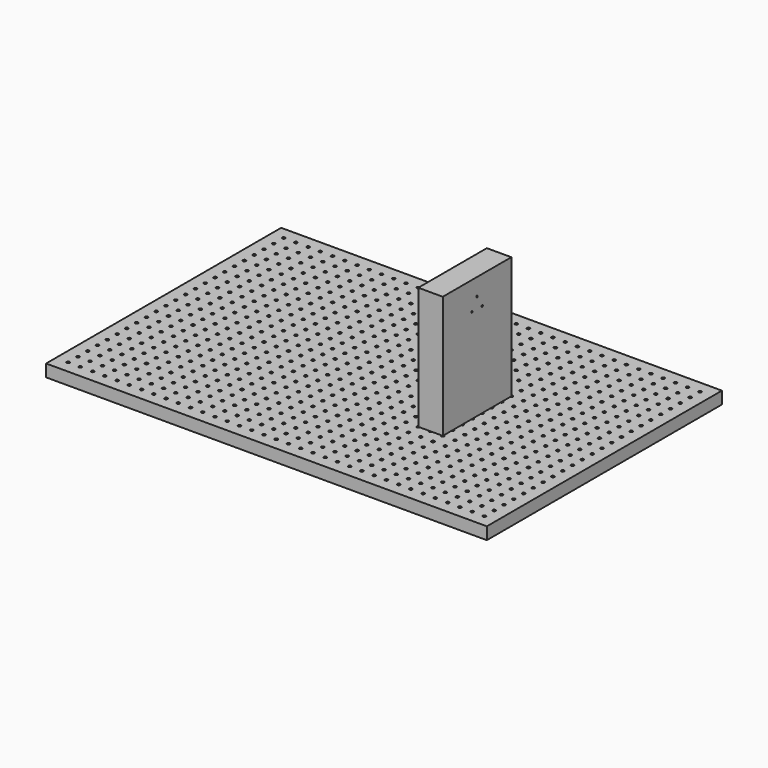
from build123d import *

# Parameters (mm, degrees)
F0_W     = 900
F0_H     = 600
F1_DEPTH = 25
F2_R     = 3
F3_DEPTH = 10
F4_W     = 50
F4_H     = 175
F5_DEPTH = 250
F6_R     = 1.75
F7_DEPTH = 300.001
F8_R     = 20
F9_DEPTH = 20


with BuildPart() as f1:
    # F0 (on Top) → F1 (new body)
    with BuildSketch(Plane.XY):
        with Locations((450, 307.97898)):
            Rectangle(F0_W, F0_H)
    extrude(amount=F1_DEPTH)

    # F2 (on face) → F3 (cut)
    with BuildSketch(Plane.XY.offset(25)):
        with Locations((25, 32.97898)):
            Circle(F2_R)
        with Locations((25, 57.97898)):
            Circle(F2_R)
        with Locations((25, 82.97898)):
            Circle(F2_R)
        with Locations((25, 107.97898)):
            Circle(F2_R)
        with Locations((25, 132.97898)):
            Circle(F2_R)
        with Locations((25, 157.97898)):
            Circle(F2_R)
        with Locations((25, 182.97898)):
            Circle(F2_R)
        with Locations((25, 207.97898)):
            Circle(F2_R)
        with Locations((25, 232.97898)):
            Circle(F2_R)
        with Locations((25, 257.97898)):
            Circle(F2_R)
        with Locations((25, 282.97898)):
            Circle(F2_R)
        with Locations((25, 307.97898)):
            Circle(F2_R)
        with Locations((25, 332.97898)):
            Circle(F2_R)
        with Locations((25, 357.97898)):
            Circle(F2_R)
        with Locations((25, 382.97898)):
            Circle(F2_R)
        with Locations((25, 407.97898)):
            Circle(F2_R)
        with Locations((25, 432.97898)):
            Circle(F2_R)
        with Locations((25, 457.97898)):
            Circle(F2_R)
        with Locations((25, 482.97898)):
            Circle(F2_R)
        with Locations((25, 507.97898)):
            Circle(F2_R)
        with Locations((25, 532.97898)):
            Circle(F2_R)
        with Locations((25, 557.97898)):
            Circle(F2_R)
        with Locations((25, 582.97898)):
            Circle(F2_R)
        with Locations((50, 32.97898)):
            Circle(F2_R)
        with Locations((50, 57.97898)):
            Circle(F2_R)
        with Locations((50, 82.97898)):
            Circle(F2_R)
        with Locations((50, 107.97898)):
            Circle(F2_R)
        with Locations((50, 132.97898)):
            Circle(F2_R)
        with Locations((50, 157.97898)):
            Circle(F2_R)
        with Locations((50, 182.97898)):
            Circle(F2_R)
        with Locations((50, 207.97898)):
            Circle(F2_R)
        with Locations((50, 232.97898)):
            Circle(F2_R)
        with Locations((50, 257.97898)):
            Circle(F2_R)
        with Locations((50, 282.97898)):
            Circle(F2_R)
        with Locations((50, 307.97898)):
            Circle(F2_R)
        with Locations((50, 332.97898)):
            Circle(F2_R)
        with Locations((50, 357.97898)):
            Circle(F2_R)
        with Locations((50, 382.97898)):
            Circle(F2_R)
        with Locations((50, 407.97898)):
            Circle(F2_R)
        with Locations((50, 432.97898)):
            Circle(F2_R)
        with Locations((50, 457.97898)):
            Circle(F2_R)
        with Locations((50, 482.97898)):
            Circle(F2_R)
        with Locations((50, 507.97898)):
            Circle(F2_R)
        with Locations((50, 532.97898)):
            Circle(F2_R)
        with Locations((50, 557.97898)):
            Circle(F2_R)
        with Locations((50, 582.97898)):
            Circle(F2_R)
        with Locations((75, 32.97898)):
            Circle(F2_R)
        with Locations((75, 57.97898)):
            Circle(F2_R)
        with Locations((75, 82.97898)):
            Circle(F2_R)
        with Locations((75, 107.97898)):
            Circle(F2_R)
        with Locations((75, 132.97898)):
            Circle(F2_R)
        with Locations((75, 157.97898)):
            Circle(F2_R)
        with Locations((75, 182.97898)):
            Circle(F2_R)
        with Locations((75, 207.97898)):
            Circle(F2_R)
        with Locations((75, 232.97898)):
            Circle(F2_R)
        with Locations((75, 257.97898)):
            Circle(F2_R)
        with Locations((75, 282.97898)):
            Circle(F2_R)
        with Locations((75, 307.97898)):
            Circle(F2_R)
        with Locations((75, 332.97898)):
            Circle(F2_R)
        with Locations((75, 357.97898)):
            Circle(F2_R)
        with Locations((75, 382.97898)):
            Circle(F2_R)
        with Locations((75, 407.97898)):
            Circle(F2_R)
        with Locations((75, 432.97898)):
            Circle(F2_R)
        with Locations((75, 457.97898)):
            Circle(F2_R)
        with Locations((75, 482.97898)):
            Circle(F2_R)
        with Locations((75, 507.97898)):
            Circle(F2_R)
        with Locations((75, 532.97898)):
            Circle(F2_R)
        with Locations((75, 557.97898)):
            Circle(F2_R)
        with Locations((75, 582.97898)):
            Circle(F2_R)
        with Locations((100, 32.97898)):
            Circle(F2_R)
        with Locations((100, 57.97898)):
            Circle(F2_R)
        with Locations((100, 82.97898)):
            Circle(F2_R)
        with Locations((100, 107.97898)):
            Circle(F2_R)
        with Locations((100, 132.97898)):
            Circle(F2_R)
        with Locations((100, 157.97898)):
            Circle(F2_R)
        with Locations((100, 182.97898)):
            Circle(F2_R)
        with Locations((100, 207.97898)):
            Circle(F2_R)
        with Locations((100, 232.97898)):
            Circle(F2_R)
        with Locations((100, 257.97898)):
            Circle(F2_R)
        with Locations((100, 282.97898)):
            Circle(F2_R)
        with Locations((100, 307.97898)):
            Circle(F2_R)
        with Locations((100, 332.97898)):
            Circle(F2_R)
        with Locations((100, 357.97898)):
            Circle(F2_R)
        with Locations((100, 382.97898)):
            Circle(F2_R)
        with Locations((100, 407.97898)):
            Circle(F2_R)
        with Locations((100, 432.97898)):
            Circle(F2_R)
        with Locations((100, 457.97898)):
            Circle(F2_R)
        with Locations((100, 482.97898)):
            Circle(F2_R)
        with Locations((100, 507.97898)):
            Circle(F2_R)
        with Locations((100, 532.97898)):
            Circle(F2_R)
        with Locations((100, 557.97898)):
            Circle(F2_R)
        with Locations((100, 582.97898)):
            Circle(F2_R)
        with Locations((125, 32.97898)):
            Circle(F2_R)
        with Locations((125, 57.97898)):
            Circle(F2_R)
        with Locations((125, 82.97898)):
            Circle(F2_R)
        with Locations((125, 107.97898)):
            Circle(F2_R)
        with Locations((125, 132.97898)):
            Circle(F2_R)
        with Locations((125, 157.97898)):
            Circle(F2_R)
        with Locations((125, 182.97898)):
            Circle(F2_R)
        with Locations((125, 207.97898)):
            Circle(F2_R)
        with Locations((125, 232.97898)):
            Circle(F2_R)
        with Locations((125, 257.97898)):
            Circle(F2_R)
        with Locations((125, 282.97898)):
            Circle(F2_R)
        with Locations((125, 307.97898)):
            Circle(F2_R)
        with Locations((125, 332.97898)):
            Circle(F2_R)
        with Locations((125, 357.97898)):
            Circle(F2_R)
        with Locations((125, 382.97898)):
            Circle(F2_R)
        with Locations((125, 407.97898)):
            Circle(F2_R)
        with Locations((125, 432.97898)):
            Circle(F2_R)
        with Locations((125, 457.97898)):
            Circle(F2_R)
        with Locations((125, 482.97898)):
            Circle(F2_R)
        with Locations((125, 507.97898)):
            Circle(F2_R)
        with Locations((125, 532.97898)):
            Circle(F2_R)
        with Locations((125, 557.97898)):
            Circle(F2_R)
        with Locations((125, 582.97898)):
            Circle(F2_R)
        with Locations((150, 32.97898)):
            Circle(F2_R)
        with Locations((150, 57.97898)):
            Circle(F2_R)
        with Locations((150, 82.97898)):
            Circle(F2_R)
        with Locations((150, 107.97898)):
            Circle(F2_R)
        with Locations((150, 132.97898)):
            Circle(F2_R)
        with Locations((150, 157.97898)):
            Circle(F2_R)
        with Locations((150, 182.97898)):
            Circle(F2_R)
        with Locations((150, 207.97898)):
            Circle(F2_R)
        with Locations((150, 232.97898)):
            Circle(F2_R)
        with Locations((150, 257.97898)):
            Circle(F2_R)
        with Locations((150, 282.97898)):
            Circle(F2_R)
        with Locations((150, 307.97898)):
            Circle(F2_R)
        with Locations((150, 332.97898)):
            Circle(F2_R)
        with Locations((150, 357.97898)):
            Circle(F2_R)
        with Locations((150, 382.97898)):
            Circle(F2_R)
        with Locations((150, 407.97898)):
            Circle(F2_R)
        with Locations((150, 432.97898)):
            Circle(F2_R)
        with Locations((150, 457.97898)):
            Circle(F2_R)
        with Locations((150, 482.97898)):
            Circle(F2_R)
        with Locations((150, 507.97898)):
            Circle(F2_R)
        with Locations((150, 532.97898)):
            Circle(F2_R)
        with Locations((150, 557.97898)):
            Circle(F2_R)
        with Locations((150, 582.97898)):
            Circle(F2_R)
        with Locations((175, 32.97898)):
            Circle(F2_R)
        with Locations((175, 57.97898)):
            Circle(F2_R)
        with Locations((175, 82.97898)):
            Circle(F2_R)
        with Locations((175, 107.97898)):
            Circle(F2_R)
        with Locations((175, 132.97898)):
            Circle(F2_R)
        with Locations((175, 157.97898)):
            Circle(F2_R)
        with Locations((175, 182.97898)):
            Circle(F2_R)
        with Locations((175, 207.97898)):
            Circle(F2_R)
        with Locations((175, 232.97898)):
            Circle(F2_R)
        with Locations((175, 257.97898)):
            Circle(F2_R)
        with Locations((175, 282.97898)):
            Circle(F2_R)
        with Locations((175, 307.97898)):
            Circle(F2_R)
        with Locations((175, 332.97898)):
            Circle(F2_R)
        with Locations((175, 357.97898)):
            Circle(F2_R)
        with Locations((175, 382.97898)):
            Circle(F2_R)
        with Locations((175, 407.97898)):
            Circle(F2_R)
        with Locations((175, 432.97898)):
            Circle(F2_R)
        with Locations((175, 457.97898)):
            Circle(F2_R)
        with Locations((175, 482.97898)):
            Circle(F2_R)
        with Locations((175, 507.97898)):
            Circle(F2_R)
        with Locations((175, 532.97898)):
            Circle(F2_R)
        with Locations((175, 557.97898)):
            Circle(F2_R)
        with Locations((175, 582.97898)):
            Circle(F2_R)
        with Locations((200, 32.97898)):
            Circle(F2_R)
        with Locations((200, 57.97898)):
            Circle(F2_R)
        with Locations((200, 82.97898)):
            Circle(F2_R)
        with Locations((200, 107.97898)):
            Circle(F2_R)
        with Locations((200, 132.97898)):
            Circle(F2_R)
        with Locations((200, 157.97898)):
            Circle(F2_R)
        with Locations((200, 182.97898)):
            Circle(F2_R)
        with Locations((200, 207.97898)):
            Circle(F2_R)
        with Locations((200, 232.97898)):
            Circle(F2_R)
        with Locations((200, 257.97898)):
            Circle(F2_R)
        with Locations((200, 282.97898)):
            Circle(F2_R)
        with Locations((200, 307.97898)):
            Circle(F2_R)
        with Locations((200, 332.97898)):
            Circle(F2_R)
        with Locations((200, 357.97898)):
            Circle(F2_R)
        with Locations((200, 382.97898)):
            Circle(F2_R)
        with Locations((200, 407.97898)):
            Circle(F2_R)
        with Locations((200, 432.97898)):
            Circle(F2_R)
        with Locations((200, 457.97898)):
            Circle(F2_R)
        with Locations((200, 482.97898)):
            Circle(F2_R)
        with Locations((200, 507.97898)):
            Circle(F2_R)
        with Locations((200, 532.97898)):
            Circle(F2_R)
        with Locations((200, 557.97898)):
            Circle(F2_R)
        with Locations((200, 582.97898)):
            Circle(F2_R)
        with Locations((225, 32.97898)):
            Circle(F2_R)
        with Locations((225, 57.97898)):
            Circle(F2_R)
        with Locations((225, 82.97898)):
            Circle(F2_R)
        with Locations((225, 107.97898)):
            Circle(F2_R)
        with Locations((225, 132.97898)):
            Circle(F2_R)
        with Locations((225, 157.97898)):
            Circle(F2_R)
        with Locations((225, 182.97898)):
            Circle(F2_R)
        with Locations((225, 207.97898)):
            Circle(F2_R)
        with Locations((225, 232.97898)):
            Circle(F2_R)
        with Locations((225, 257.97898)):
            Circle(F2_R)
        with Locations((225, 282.97898)):
            Circle(F2_R)
        with Locations((225, 307.97898)):
            Circle(F2_R)
        with Locations((225, 332.97898)):
            Circle(F2_R)
        with Locations((225, 357.97898)):
            Circle(F2_R)
        with Locations((225, 382.97898)):
            Circle(F2_R)
        with Locations((225, 407.97898)):
            Circle(F2_R)
        with Locations((225, 432.97898)):
            Circle(F2_R)
        with Locations((225, 457.97898)):
            Circle(F2_R)
        with Locations((225, 482.97898)):
            Circle(F2_R)
        with Locations((225, 507.97898)):
            Circle(F2_R)
        with Locations((225, 532.97898)):
            Circle(F2_R)
        with Locations((225, 557.97898)):
            Circle(F2_R)
        with Locations((225, 582.97898)):
            Circle(F2_R)
        with Locations((250, 32.97898)):
            Circle(F2_R)
        with Locations((250, 57.97898)):
            Circle(F2_R)
        with Locations((250, 82.97898)):
            Circle(F2_R)
        with Locations((250, 107.97898)):
            Circle(F2_R)
        with Locations((250, 132.97898)):
            Circle(F2_R)
        with Locations((250, 157.97898)):
            Circle(F2_R)
        with Locations((250, 182.97898)):
            Circle(F2_R)
        with Locations((250, 207.97898)):
            Circle(F2_R)
        with Locations((250, 232.97898)):
            Circle(F2_R)
        with Locations((250, 257.97898)):
            Circle(F2_R)
        with Locations((250, 282.97898)):
            Circle(F2_R)
        with Locations((250, 307.97898)):
            Circle(F2_R)
        with Locations((250, 332.97898)):
            Circle(F2_R)
        with Locations((250, 357.97898)):
            Circle(F2_R)
        with Locations((250, 382.97898)):
            Circle(F2_R)
        with Locations((250, 407.97898)):
            Circle(F2_R)
        with Locations((250, 432.97898)):
            Circle(F2_R)
        with Locations((250, 457.97898)):
            Circle(F2_R)
        with Locations((250, 482.97898)):
            Circle(F2_R)
        with Locations((250, 507.97898)):
            Circle(F2_R)
        with Locations((250, 532.97898)):
            Circle(F2_R)
        with Locations((250, 557.97898)):
            Circle(F2_R)
        with Locations((250, 582.97898)):
            Circle(F2_R)
        with Locations((275, 32.97898)):
            Circle(F2_R)
        with Locations((275, 57.97898)):
            Circle(F2_R)
        with Locations((275, 82.97898)):
            Circle(F2_R)
        with Locations((275, 107.97898)):
            Circle(F2_R)
        with Locations((275, 132.97898)):
            Circle(F2_R)
        with Locations((275, 157.97898)):
            Circle(F2_R)
        with Locations((275, 182.97898)):
            Circle(F2_R)
        with Locations((275, 207.97898)):
            Circle(F2_R)
        with Locations((275, 232.97898)):
            Circle(F2_R)
        with Locations((275, 257.97898)):
            Circle(F2_R)
        with Locations((275, 282.97898)):
            Circle(F2_R)
        with Locations((275, 307.97898)):
            Circle(F2_R)
        with Locations((275, 332.97898)):
            Circle(F2_R)
        with Locations((275, 357.97898)):
            Circle(F2_R)
        with Locations((275, 382.97898)):
            Circle(F2_R)
        with Locations((275, 407.97898)):
            Circle(F2_R)
        with Locations((275, 432.97898)):
            Circle(F2_R)
        with Locations((275, 457.97898)):
            Circle(F2_R)
        with Locations((275, 482.97898)):
            Circle(F2_R)
        with Locations((275, 507.97898)):
            Circle(F2_R)
        with Locations((275, 532.97898)):
            Circle(F2_R)
        with Locations((275, 557.97898)):
            Circle(F2_R)
        with Locations((275, 582.97898)):
            Circle(F2_R)
        with Locations((300, 32.97898)):
            Circle(F2_R)
        with Locations((300, 57.97898)):
            Circle(F2_R)
        with Locations((300, 82.97898)):
            Circle(F2_R)
        with Locations((300, 107.97898)):
            Circle(F2_R)
        with Locations((300, 132.97898)):
            Circle(F2_R)
        with Locations((300, 157.97898)):
            Circle(F2_R)
        with Locations((300, 182.97898)):
            Circle(F2_R)
        with Locations((300, 207.97898)):
            Circle(F2_R)
        with Locations((300, 232.97898)):
            Circle(F2_R)
        with Locations((300, 257.97898)):
            Circle(F2_R)
        with Locations((300, 282.97898)):
            Circle(F2_R)
        with Locations((300, 307.97898)):
            Circle(F2_R)
        with Locations((300, 332.97898)):
            Circle(F2_R)
        with Locations((300, 357.97898)):
            Circle(F2_R)
        with Locations((300, 382.97898)):
            Circle(F2_R)
        with Locations((300, 407.97898)):
            Circle(F2_R)
        with Locations((300, 432.97898)):
            Circle(F2_R)
        with Locations((300, 457.97898)):
            Circle(F2_R)
        with Locations((300, 482.97898)):
            Circle(F2_R)
        with Locations((300, 507.97898)):
            Circle(F2_R)
        with Locations((300, 532.97898)):
            Circle(F2_R)
        with Locations((300, 557.97898)):
            Circle(F2_R)
        with Locations((300, 582.97898)):
            Circle(F2_R)
        with Locations((325, 32.97898)):
            Circle(F2_R)
        with Locations((325, 57.97898)):
            Circle(F2_R)
        with Locations((325, 82.97898)):
            Circle(F2_R)
        with Locations((325, 107.97898)):
            Circle(F2_R)
        with Locations((325, 132.97898)):
            Circle(F2_R)
        with Locations((325, 157.97898)):
            Circle(F2_R)
        with Locations((325, 182.97898)):
            Circle(F2_R)
        with Locations((325, 207.97898)):
            Circle(F2_R)
        with Locations((325, 232.97898)):
            Circle(F2_R)
        with Locations((325, 257.97898)):
            Circle(F2_R)
        with Locations((325, 282.97898)):
            Circle(F2_R)
        with Locations((325, 307.97898)):
            Circle(F2_R)
        with Locations((325, 332.97898)):
            Circle(F2_R)
        with Locations((325, 357.97898)):
            Circle(F2_R)
        with Locations((325, 382.97898)):
            Circle(F2_R)
        with Locations((325, 407.97898)):
            Circle(F2_R)
        with Locations((325, 432.97898)):
            Circle(F2_R)
        with Locations((325, 457.97898)):
            Circle(F2_R)
        with Locations((325, 482.97898)):
            Circle(F2_R)
        with Locations((325, 507.97898)):
            Circle(F2_R)
        with Locations((325, 532.97898)):
            Circle(F2_R)
        with Locations((325, 557.97898)):
            Circle(F2_R)
        with Locations((325, 582.97898)):
            Circle(F2_R)
        with Locations((350, 32.97898)):
            Circle(F2_R)
        with Locations((350, 57.97898)):
            Circle(F2_R)
        with Locations((350, 82.97898)):
            Circle(F2_R)
        with Locations((350, 107.97898)):
            Circle(F2_R)
        with Locations((350, 132.97898)):
            Circle(F2_R)
        with Locations((350, 157.97898)):
            Circle(F2_R)
        with Locations((350, 182.97898)):
            Circle(F2_R)
        with Locations((350, 207.97898)):
            Circle(F2_R)
        with Locations((350, 232.97898)):
            Circle(F2_R)
        with Locations((350, 257.97898)):
            Circle(F2_R)
        with Locations((350, 282.97898)):
            Circle(F2_R)
        with Locations((350, 307.97898)):
            Circle(F2_R)
        with Locations((350, 332.97898)):
            Circle(F2_R)
        with Locations((350, 357.97898)):
            Circle(F2_R)
        with Locations((350, 382.97898)):
            Circle(F2_R)
        with Locations((350, 407.97898)):
            Circle(F2_R)
        with Locations((350, 432.97898)):
            Circle(F2_R)
        with Locations((350, 457.97898)):
            Circle(F2_R)
        with Locations((350, 482.97898)):
            Circle(F2_R)
        with Locations((350, 507.97898)):
            Circle(F2_R)
        with Locations((350, 532.97898)):
            Circle(F2_R)
        with Locations((350, 557.97898)):
            Circle(F2_R)
        with Locations((350, 582.97898)):
            Circle(F2_R)
        with Locations((375, 32.97898)):
            Circle(F2_R)
        with Locations((375, 57.97898)):
            Circle(F2_R)
        with Locations((375, 82.97898)):
            Circle(F2_R)
        with Locations((375, 107.97898)):
            Circle(F2_R)
        with Locations((375, 132.97898)):
            Circle(F2_R)
        with Locations((375, 157.97898)):
            Circle(F2_R)
        with Locations((375, 182.97898)):
            Circle(F2_R)
        with Locations((375, 207.97898)):
            Circle(F2_R)
        with Locations((375, 232.97898)):
            Circle(F2_R)
        with Locations((375, 257.97898)):
            Circle(F2_R)
        with Locations((375, 282.97898)):
            Circle(F2_R)
        with Locations((375, 307.97898)):
            Circle(F2_R)
        with Locations((375, 332.97898)):
            Circle(F2_R)
        with Locations((375, 357.97898)):
            Circle(F2_R)
        with Locations((375, 382.97898)):
            Circle(F2_R)
        with Locations((375, 407.97898)):
            Circle(F2_R)
        with Locations((375, 432.97898)):
            Circle(F2_R)
        with Locations((375, 457.97898)):
            Circle(F2_R)
        with Locations((375, 482.97898)):
            Circle(F2_R)
        with Locations((375, 507.97898)):
            Circle(F2_R)
        with Locations((375, 532.97898)):
            Circle(F2_R)
        with Locations((375, 557.97898)):
            Circle(F2_R)
        with Locations((375, 582.97898)):
            Circle(F2_R)
        with Locations((400, 32.97898)):
            Circle(F2_R)
        with Locations((400, 57.97898)):
            Circle(F2_R)
        with Locations((400, 82.97898)):
            Circle(F2_R)
        with Locations((400, 107.97898)):
            Circle(F2_R)
        with Locations((400, 132.97898)):
            Circle(F2_R)
        with Locations((400, 157.97898)):
            Circle(F2_R)
        with Locations((400, 182.97898)):
            Circle(F2_R)
        with Locations((400, 207.97898)):
            Circle(F2_R)
        with Locations((400, 232.97898)):
            Circle(F2_R)
        with Locations((400, 257.97898)):
            Circle(F2_R)
        with Locations((400, 282.97898)):
            Circle(F2_R)
        with Locations((400, 307.97898)):
            Circle(F2_R)
        with Locations((400, 332.97898)):
            Circle(F2_R)
        with Locations((400, 357.97898)):
            Circle(F2_R)
        with Locations((400, 382.97898)):
            Circle(F2_R)
        with Locations((400, 407.97898)):
            Circle(F2_R)
        with Locations((400, 432.97898)):
            Circle(F2_R)
        with Locations((400, 457.97898)):
            Circle(F2_R)
        with Locations((400, 482.97898)):
            Circle(F2_R)
        with Locations((400, 507.97898)):
            Circle(F2_R)
        with Locations((400, 532.97898)):
            Circle(F2_R)
        with Locations((400, 557.97898)):
            Circle(F2_R)
        with Locations((400, 582.97898)):
            Circle(F2_R)
        with Locations((425, 32.97898)):
            Circle(F2_R)
        with Locations((425, 57.97898)):
            Circle(F2_R)
        with Locations((425, 82.97898)):
            Circle(F2_R)
        with Locations((425, 107.97898)):
            Circle(F2_R)
        with Locations((425, 132.97898)):
            Circle(F2_R)
        with Locations((425, 157.97898)):
            Circle(F2_R)
        with Locations((425, 182.97898)):
            Circle(F2_R)
        with Locations((425, 207.97898)):
            Circle(F2_R)
        with Locations((425, 232.97898)):
            Circle(F2_R)
        with Locations((425, 257.97898)):
            Circle(F2_R)
        with Locations((425, 282.97898)):
            Circle(F2_R)
        with Locations((425, 307.97898)):
            Circle(F2_R)
        with Locations((425, 332.97898)):
            Circle(F2_R)
        with Locations((425, 357.97898)):
            Circle(F2_R)
        with Locations((425, 382.97898)):
            Circle(F2_R)
        with Locations((425, 407.97898)):
            Circle(F2_R)
        with Locations((425, 432.97898)):
            Circle(F2_R)
        with Locations((425, 457.97898)):
            Circle(F2_R)
        with Locations((425, 482.97898)):
            Circle(F2_R)
        with Locations((425, 507.97898)):
            Circle(F2_R)
        with Locations((425, 532.97898)):
            Circle(F2_R)
        with Locations((425, 557.97898)):
            Circle(F2_R)
        with Locations((425, 582.97898)):
            Circle(F2_R)
        with Locations((450, 32.97898)):
            Circle(F2_R)
        with Locations((450, 57.97898)):
            Circle(F2_R)
        with Locations((450, 82.97898)):
            Circle(F2_R)
        with Locations((450, 107.97898)):
            Circle(F2_R)
        with Locations((450, 132.97898)):
            Circle(F2_R)
        with Locations((450, 157.97898)):
            Circle(F2_R)
        with Locations((450, 182.97898)):
            Circle(F2_R)
        with Locations((450, 207.97898)):
            Circle(F2_R)
        with Locations((450, 232.97898)):
            Circle(F2_R)
        with Locations((450, 257.97898)):
            Circle(F2_R)
        with Locations((450, 282.97898)):
            Circle(F2_R)
        with Locations((450, 307.97898)):
            Circle(F2_R)
        with Locations((450, 332.97898)):
            Circle(F2_R)
        with Locations((450, 357.97898)):
            Circle(F2_R)
        with Locations((450, 382.97898)):
            Circle(F2_R)
        with Locations((450, 407.97898)):
            Circle(F2_R)
        with Locations((450, 432.97898)):
            Circle(F2_R)
        with Locations((450, 457.97898)):
            Circle(F2_R)
        with Locations((450, 482.97898)):
            Circle(F2_R)
        with Locations((450, 507.97898)):
            Circle(F2_R)
        with Locations((450, 532.97898)):
            Circle(F2_R)
        with Locations((450, 557.97898)):
            Circle(F2_R)
        with Locations((450, 582.97898)):
            Circle(F2_R)
        with Locations((475, 32.97898)):
            Circle(F2_R)
        with Locations((475, 57.97898)):
            Circle(F2_R)
        with Locations((475, 82.97898)):
            Circle(F2_R)
        with Locations((475, 107.97898)):
            Circle(F2_R)
        with Locations((475, 132.97898)):
            Circle(F2_R)
        with Locations((475, 157.97898)):
            Circle(F2_R)
        with Locations((475, 182.97898)):
            Circle(F2_R)
        with Locations((475, 207.97898)):
            Circle(F2_R)
        with Locations((475, 232.97898)):
            Circle(F2_R)
        with Locations((475, 257.97898)):
            Circle(F2_R)
        with Locations((475, 282.97898)):
            Circle(F2_R)
        with Locations((475, 307.97898)):
            Circle(F2_R)
        with Locations((475, 332.97898)):
            Circle(F2_R)
        with Locations((475, 357.97898)):
            Circle(F2_R)
        with Locations((475, 382.97898)):
            Circle(F2_R)
        with Locations((475, 407.97898)):
            Circle(F2_R)
        with Locations((475, 432.97898)):
            Circle(F2_R)
        with Locations((475, 457.97898)):
            Circle(F2_R)
        with Locations((475, 482.97898)):
            Circle(F2_R)
        with Locations((475, 507.97898)):
            Circle(F2_R)
        with Locations((475, 532.97898)):
            Circle(F2_R)
        with Locations((475, 557.97898)):
            Circle(F2_R)
        with Locations((475, 582.97898)):
            Circle(F2_R)
        with Locations((500, 32.97898)):
            Circle(F2_R)
        with Locations((500, 57.97898)):
            Circle(F2_R)
        with Locations((500, 82.97898)):
            Circle(F2_R)
        with Locations((500, 107.97898)):
            Circle(F2_R)
        with Locations((500, 132.97898)):
            Circle(F2_R)
        with Locations((500, 157.97898)):
            Circle(F2_R)
        with Locations((500, 182.97898)):
            Circle(F2_R)
        with Locations((500, 207.97898)):
            Circle(F2_R)
        with Locations((500, 232.97898)):
            Circle(F2_R)
        with Locations((500, 257.97898)):
            Circle(F2_R)
        with Locations((500, 282.97898)):
            Circle(F2_R)
        with Locations((500, 307.97898)):
            Circle(F2_R)
        with Locations((500, 332.97898)):
            Circle(F2_R)
        with Locations((500, 357.97898)):
            Circle(F2_R)
        with Locations((500, 382.97898)):
            Circle(F2_R)
        with Locations((500, 407.97898)):
            Circle(F2_R)
        with Locations((500, 432.97898)):
            Circle(F2_R)
        with Locations((500, 457.97898)):
            Circle(F2_R)
        with Locations((500, 482.97898)):
            Circle(F2_R)
        with Locations((500, 507.97898)):
            Circle(F2_R)
        with Locations((500, 532.97898)):
            Circle(F2_R)
        with Locations((500, 557.97898)):
            Circle(F2_R)
        with Locations((500, 582.97898)):
            Circle(F2_R)
        with Locations((525, 32.97898)):
            Circle(F2_R)
        with Locations((525, 57.97898)):
            Circle(F2_R)
        with Locations((525, 82.97898)):
            Circle(F2_R)
        with Locations((525, 107.97898)):
            Circle(F2_R)
        with Locations((525, 132.97898)):
            Circle(F2_R)
        with Locations((525, 157.97898)):
            Circle(F2_R)
        with Locations((525, 182.97898)):
            Circle(F2_R)
        with Locations((525, 207.97898)):
            Circle(F2_R)
        with Locations((525, 232.97898)):
            Circle(F2_R)
        with Locations((525, 257.97898)):
            Circle(F2_R)
        with Locations((525, 282.97898)):
            Circle(F2_R)
        with Locations((525, 307.97898)):
            Circle(F2_R)
        with Locations((525, 332.97898)):
            Circle(F2_R)
        with Locations((525, 357.97898)):
            Circle(F2_R)
        with Locations((525, 382.97898)):
            Circle(F2_R)
        with Locations((525, 407.97898)):
            Circle(F2_R)
        with Locations((525, 432.97898)):
            Circle(F2_R)
        with Locations((525, 457.97898)):
            Circle(F2_R)
        with Locations((525, 482.97898)):
            Circle(F2_R)
        with Locations((525, 507.97898)):
            Circle(F2_R)
        with Locations((525, 532.97898)):
            Circle(F2_R)
        with Locations((525, 557.97898)):
            Circle(F2_R)
        with Locations((525, 582.97898)):
            Circle(F2_R)
        with Locations((550, 32.97898)):
            Circle(F2_R)
        with Locations((550, 57.97898)):
            Circle(F2_R)
        with Locations((550, 82.97898)):
            Circle(F2_R)
        with Locations((550, 107.97898)):
            Circle(F2_R)
        with Locations((550, 132.97898)):
            Circle(F2_R)
        with Locations((550, 157.97898)):
            Circle(F2_R)
        with Locations((550, 182.97898)):
            Circle(F2_R)
        with Locations((550, 207.97898)):
            Circle(F2_R)
        with Locations((550, 232.97898)):
            Circle(F2_R)
        with Locations((550, 257.97898)):
            Circle(F2_R)
        with Locations((550, 282.97898)):
            Circle(F2_R)
        with Locations((550, 307.97898)):
            Circle(F2_R)
        with Locations((550, 332.97898)):
            Circle(F2_R)
        with Locations((550, 357.97898)):
            Circle(F2_R)
        with Locations((550, 382.97898)):
            Circle(F2_R)
        with Locations((550, 407.97898)):
            Circle(F2_R)
        with Locations((550, 432.97898)):
            Circle(F2_R)
        with Locations((550, 457.97898)):
            Circle(F2_R)
        with Locations((550, 482.97898)):
            Circle(F2_R)
        with Locations((550, 507.97898)):
            Circle(F2_R)
        with Locations((550, 532.97898)):
            Circle(F2_R)
        with Locations((550, 557.97898)):
            Circle(F2_R)
        with Locations((550, 582.97898)):
            Circle(F2_R)
        with Locations((575, 32.97898)):
            Circle(F2_R)
        with Locations((575, 57.97898)):
            Circle(F2_R)
        with Locations((575, 82.97898)):
            Circle(F2_R)
        with Locations((575, 107.97898)):
            Circle(F2_R)
        with Locations((575, 132.97898)):
            Circle(F2_R)
        with Locations((575, 157.97898)):
            Circle(F2_R)
        with Locations((575, 182.97898)):
            Circle(F2_R)
        with Locations((575, 207.97898)):
            Circle(F2_R)
        with Locations((575, 232.97898)):
            Circle(F2_R)
        with Locations((575, 257.97898)):
            Circle(F2_R)
        with Locations((575, 282.97898)):
            Circle(F2_R)
        with Locations((575, 307.97898)):
            Circle(F2_R)
        with Locations((575, 332.97898)):
            Circle(F2_R)
        with Locations((575, 357.97898)):
            Circle(F2_R)
        with Locations((575, 382.97898)):
            Circle(F2_R)
        with Locations((575, 407.97898)):
            Circle(F2_R)
        with Locations((575, 432.97898)):
            Circle(F2_R)
        with Locations((575, 457.97898)):
            Circle(F2_R)
        with Locations((575, 482.97898)):
            Circle(F2_R)
        with Locations((575, 507.97898)):
            Circle(F2_R)
        with Locations((575, 532.97898)):
            Circle(F2_R)
        with Locations((575, 557.97898)):
            Circle(F2_R)
        with Locations((575, 582.97898)):
            Circle(F2_R)
        with Locations((600, 32.97898)):
            Circle(F2_R)
        with Locations((600, 57.97898)):
            Circle(F2_R)
        with Locations((600, 82.97898)):
            Circle(F2_R)
        with Locations((600, 107.97898)):
            Circle(F2_R)
        with Locations((600, 132.97898)):
            Circle(F2_R)
        with Locations((600, 157.97898)):
            Circle(F2_R)
        with Locations((600, 182.97898)):
            Circle(F2_R)
        with Locations((600, 207.97898)):
            Circle(F2_R)
        with Locations((600, 232.97898)):
            Circle(F2_R)
        with Locations((600, 257.97898)):
            Circle(F2_R)
        with Locations((600, 282.97898)):
            Circle(F2_R)
        with Locations((600, 307.97898)):
            Circle(F2_R)
        with Locations((600, 332.97898)):
            Circle(F2_R)
        with Locations((600, 357.97898)):
            Circle(F2_R)
        with Locations((600, 382.97898)):
            Circle(F2_R)
        with Locations((600, 407.97898)):
            Circle(F2_R)
        with Locations((600, 432.97898)):
            Circle(F2_R)
        with Locations((600, 457.97898)):
            Circle(F2_R)
        with Locations((600, 482.97898)):
            Circle(F2_R)
        with Locations((600, 507.97898)):
            Circle(F2_R)
        with Locations((600, 532.97898)):
            Circle(F2_R)
        with Locations((600, 557.97898)):
            Circle(F2_R)
        with Locations((600, 582.97898)):
            Circle(F2_R)
        with Locations((625, 32.97898)):
            Circle(F2_R)
        with Locations((625, 57.97898)):
            Circle(F2_R)
        with Locations((625, 82.97898)):
            Circle(F2_R)
        with Locations((625, 107.97898)):
            Circle(F2_R)
        with Locations((625, 132.97898)):
            Circle(F2_R)
        with Locations((625, 157.97898)):
            Circle(F2_R)
        with Locations((625, 182.97898)):
            Circle(F2_R)
        with Locations((625, 207.97898)):
            Circle(F2_R)
        with Locations((625, 232.97898)):
            Circle(F2_R)
        with Locations((625, 257.97898)):
            Circle(F2_R)
        with Locations((625, 282.97898)):
            Circle(F2_R)
        with Locations((625, 307.97898)):
            Circle(F2_R)
        with Locations((625, 332.97898)):
            Circle(F2_R)
        with Locations((625, 357.97898)):
            Circle(F2_R)
        with Locations((625, 382.97898)):
            Circle(F2_R)
        with Locations((625, 407.97898)):
            Circle(F2_R)
        with Locations((625, 432.97898)):
            Circle(F2_R)
        with Locations((625, 457.97898)):
            Circle(F2_R)
        with Locations((625, 482.97898)):
            Circle(F2_R)
        with Locations((625, 507.97898)):
            Circle(F2_R)
        with Locations((625, 532.97898)):
            Circle(F2_R)
        with Locations((625, 557.97898)):
            Circle(F2_R)
        with Locations((625, 582.97898)):
            Circle(F2_R)
        with Locations((650, 32.97898)):
            Circle(F2_R)
        with Locations((650, 57.97898)):
            Circle(F2_R)
        with Locations((650, 82.97898)):
            Circle(F2_R)
        with Locations((650, 107.97898)):
            Circle(F2_R)
        with Locations((650, 132.97898)):
            Circle(F2_R)
        with Locations((650, 157.97898)):
            Circle(F2_R)
        with Locations((650, 182.97898)):
            Circle(F2_R)
        with Locations((650, 207.97898)):
            Circle(F2_R)
        with Locations((650, 232.97898)):
            Circle(F2_R)
        with Locations((650, 257.97898)):
            Circle(F2_R)
        with Locations((650, 282.97898)):
            Circle(F2_R)
        with Locations((650, 307.97898)):
            Circle(F2_R)
        with Locations((650, 332.97898)):
            Circle(F2_R)
        with Locations((650, 357.97898)):
            Circle(F2_R)
        with Locations((650, 382.97898)):
            Circle(F2_R)
        with Locations((650, 407.97898)):
            Circle(F2_R)
        with Locations((650, 432.97898)):
            Circle(F2_R)
        with Locations((650, 457.97898)):
            Circle(F2_R)
        with Locations((650, 482.97898)):
            Circle(F2_R)
        with Locations((650, 507.97898)):
            Circle(F2_R)
        with Locations((650, 532.97898)):
            Circle(F2_R)
        with Locations((650, 557.97898)):
            Circle(F2_R)
        with Locations((650, 582.97898)):
            Circle(F2_R)
        with Locations((675, 32.97898)):
            Circle(F2_R)
        with Locations((675, 57.97898)):
            Circle(F2_R)
        with Locations((675, 82.97898)):
            Circle(F2_R)
        with Locations((675, 107.97898)):
            Circle(F2_R)
        with Locations((675, 132.97898)):
            Circle(F2_R)
        with Locations((675, 157.97898)):
            Circle(F2_R)
        with Locations((675, 182.97898)):
            Circle(F2_R)
        with Locations((675, 207.97898)):
            Circle(F2_R)
        with Locations((675, 232.97898)):
            Circle(F2_R)
        with Locations((675, 257.97898)):
            Circle(F2_R)
        with Locations((675, 282.97898)):
            Circle(F2_R)
        with Locations((675, 307.97898)):
            Circle(F2_R)
        with Locations((675, 332.97898)):
            Circle(F2_R)
        with Locations((675, 357.97898)):
            Circle(F2_R)
        with Locations((675, 382.97898)):
            Circle(F2_R)
        with Locations((675, 407.97898)):
            Circle(F2_R)
        with Locations((675, 432.97898)):
            Circle(F2_R)
        with Locations((675, 457.97898)):
            Circle(F2_R)
        with Locations((675, 482.97898)):
            Circle(F2_R)
        with Locations((675, 507.97898)):
            Circle(F2_R)
        with Locations((675, 532.97898)):
            Circle(F2_R)
        with Locations((675, 557.97898)):
            Circle(F2_R)
        with Locations((675, 582.97898)):
            Circle(F2_R)
        with Locations((700, 32.97898)):
            Circle(F2_R)
        with Locations((700, 57.97898)):
            Circle(F2_R)
        with Locations((700, 82.97898)):
            Circle(F2_R)
        with Locations((700, 107.97898)):
            Circle(F2_R)
        with Locations((700, 132.97898)):
            Circle(F2_R)
        with Locations((700, 157.97898)):
            Circle(F2_R)
        with Locations((700, 182.97898)):
            Circle(F2_R)
        with Locations((700, 207.97898)):
            Circle(F2_R)
        with Locations((700, 232.97898)):
            Circle(F2_R)
        with Locations((700, 257.97898)):
            Circle(F2_R)
        with Locations((700, 282.97898)):
            Circle(F2_R)
        with Locations((700, 307.97898)):
            Circle(F2_R)
        with Locations((700, 332.97898)):
            Circle(F2_R)
        with Locations((700, 357.97898)):
            Circle(F2_R)
        with Locations((700, 382.97898)):
            Circle(F2_R)
        with Locations((700, 407.97898)):
            Circle(F2_R)
        with Locations((700, 432.97898)):
            Circle(F2_R)
        with Locations((700, 457.97898)):
            Circle(F2_R)
        with Locations((700, 482.97898)):
            Circle(F2_R)
        with Locations((700, 507.97898)):
            Circle(F2_R)
        with Locations((700, 532.97898)):
            Circle(F2_R)
        with Locations((700, 557.97898)):
            Circle(F2_R)
        with Locations((700, 582.97898)):
            Circle(F2_R)
        with Locations((725, 32.97898)):
            Circle(F2_R)
        with Locations((725, 57.97898)):
            Circle(F2_R)
        with Locations((725, 82.97898)):
            Circle(F2_R)
        with Locations((725, 107.97898)):
            Circle(F2_R)
        with Locations((725, 132.97898)):
            Circle(F2_R)
        with Locations((725, 157.97898)):
            Circle(F2_R)
        with Locations((725, 182.97898)):
            Circle(F2_R)
        with Locations((725, 207.97898)):
            Circle(F2_R)
        with Locations((725, 232.97898)):
            Circle(F2_R)
        with Locations((725, 257.97898)):
            Circle(F2_R)
        with Locations((725, 282.97898)):
            Circle(F2_R)
        with Locations((725, 307.97898)):
            Circle(F2_R)
        with Locations((725, 332.97898)):
            Circle(F2_R)
        with Locations((725, 357.97898)):
            Circle(F2_R)
        with Locations((725, 382.97898)):
            Circle(F2_R)
        with Locations((725, 407.97898)):
            Circle(F2_R)
        with Locations((725, 432.97898)):
            Circle(F2_R)
        with Locations((725, 457.97898)):
            Circle(F2_R)
        with Locations((725, 482.97898)):
            Circle(F2_R)
        with Locations((725, 507.97898)):
            Circle(F2_R)
        with Locations((725, 532.97898)):
            Circle(F2_R)
        with Locations((725, 557.97898)):
            Circle(F2_R)
        with Locations((725, 582.97898)):
            Circle(F2_R)
        with Locations((750, 32.97898)):
            Circle(F2_R)
        with Locations((750, 57.97898)):
            Circle(F2_R)
        with Locations((750, 82.97898)):
            Circle(F2_R)
        with Locations((750, 107.97898)):
            Circle(F2_R)
        with Locations((750, 132.97898)):
            Circle(F2_R)
        with Locations((750, 157.97898)):
            Circle(F2_R)
        with Locations((750, 182.97898)):
            Circle(F2_R)
        with Locations((750, 207.97898)):
            Circle(F2_R)
        with Locations((750, 232.97898)):
            Circle(F2_R)
        with Locations((750, 257.97898)):
            Circle(F2_R)
        with Locations((750, 282.97898)):
            Circle(F2_R)
        with Locations((750, 307.97898)):
            Circle(F2_R)
        with Locations((750, 332.97898)):
            Circle(F2_R)
        with Locations((750, 357.97898)):
            Circle(F2_R)
        with Locations((750, 382.97898)):
            Circle(F2_R)
        with Locations((750, 407.97898)):
            Circle(F2_R)
        with Locations((750, 432.97898)):
            Circle(F2_R)
        with Locations((750, 457.97898)):
            Circle(F2_R)
        with Locations((750, 482.97898)):
            Circle(F2_R)
        with Locations((750, 507.97898)):
            Circle(F2_R)
        with Locations((750, 532.97898)):
            Circle(F2_R)
        with Locations((750, 557.97898)):
            Circle(F2_R)
        with Locations((750, 582.97898)):
            Circle(F2_R)
        with Locations((775, 32.97898)):
            Circle(F2_R)
        with Locations((775, 57.97898)):
            Circle(F2_R)
        with Locations((775, 82.97898)):
            Circle(F2_R)
        with Locations((775, 107.97898)):
            Circle(F2_R)
        with Locations((775, 132.97898)):
            Circle(F2_R)
        with Locations((775, 157.97898)):
            Circle(F2_R)
        with Locations((775, 182.97898)):
            Circle(F2_R)
        with Locations((775, 207.97898)):
            Circle(F2_R)
        with Locations((775, 232.97898)):
            Circle(F2_R)
        with Locations((775, 257.97898)):
            Circle(F2_R)
        with Locations((775, 282.97898)):
            Circle(F2_R)
        with Locations((775, 307.97898)):
            Circle(F2_R)
        with Locations((775, 332.97898)):
            Circle(F2_R)
        with Locations((775, 357.97898)):
            Circle(F2_R)
        with Locations((775, 382.97898)):
            Circle(F2_R)
        with Locations((775, 407.97898)):
            Circle(F2_R)
        with Locations((775, 432.97898)):
            Circle(F2_R)
        with Locations((775, 457.97898)):
            Circle(F2_R)
        with Locations((775, 482.97898)):
            Circle(F2_R)
        with Locations((775, 507.97898)):
            Circle(F2_R)
        with Locations((775, 532.97898)):
            Circle(F2_R)
        with Locations((775, 557.97898)):
            Circle(F2_R)
        with Locations((775, 582.97898)):
            Circle(F2_R)
        with Locations((800, 32.97898)):
            Circle(F2_R)
        with Locations((800, 57.97898)):
            Circle(F2_R)
        with Locations((800, 82.97898)):
            Circle(F2_R)
        with Locations((800, 107.97898)):
            Circle(F2_R)
        with Locations((800, 132.97898)):
            Circle(F2_R)
        with Locations((800, 157.97898)):
            Circle(F2_R)
        with Locations((800, 182.97898)):
            Circle(F2_R)
        with Locations((800, 207.97898)):
            Circle(F2_R)
        with Locations((800, 232.97898)):
            Circle(F2_R)
        with Locations((800, 257.97898)):
            Circle(F2_R)
        with Locations((800, 282.97898)):
            Circle(F2_R)
        with Locations((800, 307.97898)):
            Circle(F2_R)
        with Locations((800, 332.97898)):
            Circle(F2_R)
        with Locations((800, 357.97898)):
            Circle(F2_R)
        with Locations((800, 382.97898)):
            Circle(F2_R)
        with Locations((800, 407.97898)):
            Circle(F2_R)
        with Locations((800, 432.97898)):
            Circle(F2_R)
        with Locations((800, 457.97898)):
            Circle(F2_R)
        with Locations((800, 482.97898)):
            Circle(F2_R)
        with Locations((800, 507.97898)):
            Circle(F2_R)
        with Locations((800, 532.97898)):
            Circle(F2_R)
        with Locations((800, 557.97898)):
            Circle(F2_R)
        with Locations((800, 582.97898)):
            Circle(F2_R)
        with Locations((825, 32.97898)):
            Circle(F2_R)
        with Locations((825, 57.97898)):
            Circle(F2_R)
        with Locations((825, 82.97898)):
            Circle(F2_R)
        with Locations((825, 107.97898)):
            Circle(F2_R)
        with Locations((825, 132.97898)):
            Circle(F2_R)
        with Locations((825, 157.97898)):
            Circle(F2_R)
        with Locations((825, 182.97898)):
            Circle(F2_R)
        with Locations((825, 207.97898)):
            Circle(F2_R)
        with Locations((825, 232.97898)):
            Circle(F2_R)
        with Locations((825, 257.97898)):
            Circle(F2_R)
        with Locations((825, 282.97898)):
            Circle(F2_R)
        with Locations((825, 307.97898)):
            Circle(F2_R)
        with Locations((825, 332.97898)):
            Circle(F2_R)
        with Locations((825, 357.97898)):
            Circle(F2_R)
        with Locations((825, 382.97898)):
            Circle(F2_R)
        with Locations((825, 407.97898)):
            Circle(F2_R)
        with Locations((825, 432.97898)):
            Circle(F2_R)
        with Locations((825, 457.97898)):
            Circle(F2_R)
        with Locations((825, 482.97898)):
            Circle(F2_R)
        with Locations((825, 507.97898)):
            Circle(F2_R)
        with Locations((825, 532.97898)):
            Circle(F2_R)
        with Locations((825, 557.97898)):
            Circle(F2_R)
        with Locations((825, 582.97898)):
            Circle(F2_R)
        with Locations((850, 32.97898)):
            Circle(F2_R)
        with Locations((850, 57.97898)):
            Circle(F2_R)
        with Locations((850, 82.97898)):
            Circle(F2_R)
        with Locations((850, 107.97898)):
            Circle(F2_R)
        with Locations((850, 132.97898)):
            Circle(F2_R)
        with Locations((850, 157.97898)):
            Circle(F2_R)
        with Locations((850, 182.97898)):
            Circle(F2_R)
        with Locations((850, 207.97898)):
            Circle(F2_R)
        with Locations((850, 232.97898)):
            Circle(F2_R)
        with Locations((850, 257.97898)):
            Circle(F2_R)
        with Locations((850, 282.97898)):
            Circle(F2_R)
        with Locations((850, 307.97898)):
            Circle(F2_R)
        with Locations((850, 332.97898)):
            Circle(F2_R)
        with Locations((850, 357.97898)):
            Circle(F2_R)
        with Locations((850, 382.97898)):
            Circle(F2_R)
        with Locations((850, 407.97898)):
            Circle(F2_R)
        with Locations((850, 432.97898)):
            Circle(F2_R)
        with Locations((850, 457.97898)):
            Circle(F2_R)
        with Locations((850, 482.97898)):
            Circle(F2_R)
        with Locations((850, 507.97898)):
            Circle(F2_R)
        with Locations((850, 532.97898)):
            Circle(F2_R)
        with Locations((850, 557.97898)):
            Circle(F2_R)
        with Locations((850, 582.97898)):
            Circle(F2_R)
        with Locations((875, 32.97898)):
            Circle(F2_R)
        with Locations((875, 57.97898)):
            Circle(F2_R)
        with Locations((875, 82.97898)):
            Circle(F2_R)
        with Locations((875, 107.97898)):
            Circle(F2_R)
        with Locations((875, 132.97898)):
            Circle(F2_R)
        with Locations((875, 157.97898)):
            Circle(F2_R)
        with Locations((875, 182.97898)):
            Circle(F2_R)
        with Locations((875, 207.97898)):
            Circle(F2_R)
        with Locations((875, 232.97898)):
            Circle(F2_R)
        with Locations((875, 257.97898)):
            Circle(F2_R)
        with Locations((875, 282.97898)):
            Circle(F2_R)
        with Locations((875, 307.97898)):
            Circle(F2_R)
        with Locations((875, 332.97898)):
            Circle(F2_R)
        with Locations((875, 357.97898)):
            Circle(F2_R)
        with Locations((875, 382.97898)):
            Circle(F2_R)
        with Locations((875, 407.97898)):
            Circle(F2_R)
        with Locations((875, 432.97898)):
            Circle(F2_R)
        with Locations((875, 457.97898)):
            Circle(F2_R)
        with Locations((875, 482.97898)):
            Circle(F2_R)
        with Locations((875, 507.97898)):
            Circle(F2_R)
        with Locations((875, 532.97898)):
            Circle(F2_R)
        with Locations((875, 557.97898)):
            Circle(F2_R)
        with Locations((875, 582.97898)):
            Circle(F2_R)
    extrude(amount=-F3_DEPTH, mode=Mode.SUBTRACT)


with BuildPart() as f5:
    # F4 (on face) → F5 (new body)
    with BuildSketch(Plane.XY.offset(25)):
        with Locations((625, 295.47898)):
            Rectangle(F4_W, F4_H)
    extrude(amount=F5_DEPTH)

    # F6 (on face) → F7 (cut, through all)
    with BuildSketch(Plane(origin=(600, 0, 0), x_dir=(0, -1, 0), z_dir=(-1, 0, 0))):
        with Locations((-295.47898, 240)):
            Circle(F6_R)
        with Locations((-282.488599, 217.5)):
            Circle(F6_R)
        with Locations((-308.469361, 217.5)):
            Circle(F6_R)
    extrude(amount=-F7_DEPTH, mode=Mode.SUBTRACT)


with BuildPart() as f9:
    # F8 (on face) → F9 (new body)
    with BuildSketch(Plane(origin=(600, 0, 0), x_dir=(0, -1, 0), z_dir=(-1, 0, 0))):
        with Locations((-295.47898, 225)):
            Circle(F8_R)
    extrude(amount=F9_DEPTH)


solid = Compound([f1.part, f5.part, f9.part])
